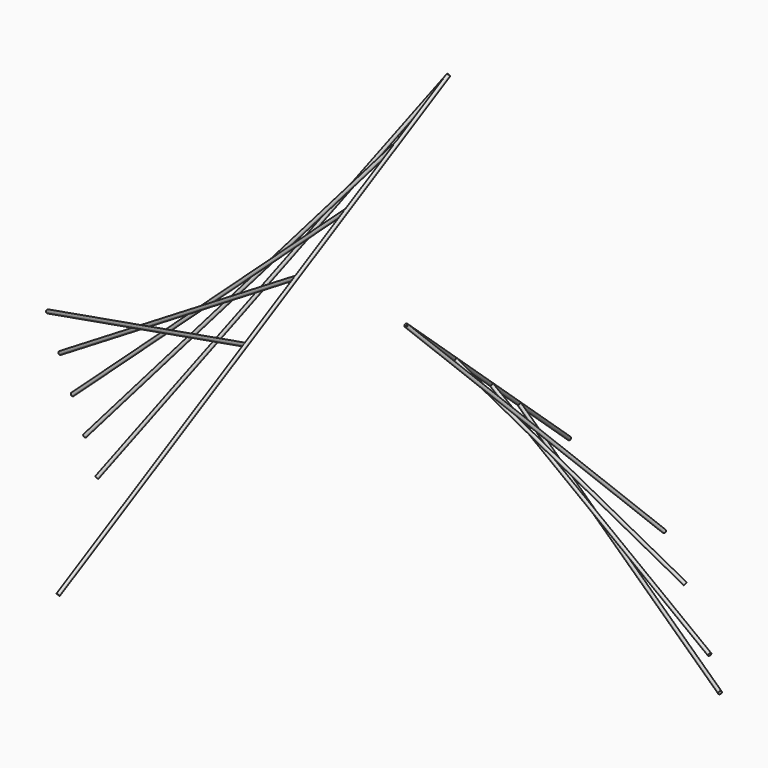
from build123d import *

# Parameters (mm, degrees)
F63_R = 12.7
F70_R = 12.7
F73_R = 12.7
F76_R = 12.7
F79_R = 12.7
F82_R = 12.7
F85_R = 12.7
F88_R = 12.7
F91_R = 12.7
F94_R = 12.7
F97_R = 12.7


with BuildPart() as f64:
    # F64: sweep along a path in F25
    with BuildLine(Plane(origin=(-389.3408093806, -284.2837312739, 424.8909350903), x_dir=(0.7955538849, -0.3369223213, 0.5035646589), z_dir=(0.6058828404, 0.4423955322, -0.6612050944))) as f64_path:
        Line((1378.450525737, -2734.5022761695), (501.7292301637, 1152.5681725711))
    # F63 (on line) → F64 (sweep)
    with BuildSketch(Plane(origin=(520.001502018, 2188.3635168782, 1940.6720255435), x_dir=(0.9845615706, -0.1309603061, -0.1161374701), z_dir=(-0.1750386065, -0.7366288346, -0.6532529726))):
        with Locations((190.2261524825, 963.7603534071)):
            Circle(F63_R)
    sweep(path=f64_path.line)


with BuildPart() as f71:
    # F71: sweep along a path in F13
    with BuildLine(Plane(origin=(-431.7393863669, 0, 925.8681019204), x_dir=(0.906307787, 0, 0.4226182617), z_dir=(0.4226182617, 0, -0.906307787))) as f71_path:
        Line((-2190.7905685546, -1524), (857.2094314454, 0))
    # F70 (on line) → F71 (sweep)
    with BuildSketch(Plane(origin=(621.5164662722, -342.8837725782, 289.8178878922), x_dir=(0.4053131641, 0.894427191, 0.1890006324), z_dir=(0.8106263281, -0.4472135955, 0.3780012647))):
        with Locations((383.3557119332, 1021.5824195307)):
            Circle(F70_R)
    sweep(path=f71_path.line)


with BuildPart() as f74:
    # F74: sweep along a path in F21
    with BuildLine(Plane(origin=(-615.8191529715, 0, 928.9531192667), x_dir=(0.8334897919, 0, 0.5525348557), z_dir=(0.5525348557, 0, -0.8334897919))) as f74_path:
        Line((-1681.2570460077, -1143), (1261.5739579109, -381))
    # F73 (on line) → F74 (sweep)
    with BuildSketch(Plane(origin=(908.3779208917, -282.1993005073, 602.1794967039), x_dir=(0.2089287283, 0.9680732664, 0.1385024818), z_dir=(0.8068791854, -0.2506674111, 0.5348942225))):
        with Locations((685.0713923805, 1114.5344889064)):
            Circle(F73_R)
    sweep(path=f74_path.line)


with BuildPart() as f77:
    # F77: sweep along a path in F15
    with BuildLine(Plane.XZ.offset(-762)) as f77_path:
        Line((-1616.9895384722, 0), (526.2235289716, 1963.8929462603))
    # F76 (on line) → F77 (sweep)
    with BuildSketch(Plane(origin=(1264.2533360874, 0, 1158.4747437124), x_dir=(0, 1, 0), z_dir=(0.7372773368, 0, 0.6755902076))):
        with Locations((762, 1092.4222980088)):
            Circle(F76_R)
    sweep(path=f77_path.line)


with BuildPart() as f80:
    # F80: sweep along a path in F23
    with BuildLine(Plane(origin=(-744.440015029, 0, 593.0264782161), x_dir=(0, -1, 0), z_dir=(-0.7821615259, 0, 0.6230757156))) as f80_path:
        Line((-381, -758.1892723911), (-1143, 2184.6417315276))
    # F79 (on line) → F80 (sweep)
    with BuildSketch(Plane(origin=(1448.487203882, 601.9542519396, 1818.3198818893), x_dir=(0.7976028692, -0.1895659013, -0.5726206703), z_dir=(0.6031829432, 0.2506674111, 0.7571896632))):
        with Locations((-1042.7871322125, 361.6953659558)):
            Circle(F79_R)
    sweep(path=f80_path.line)


with BuildPart() as f83:
    # F83: sweep along a path in F11
    with BuildLine(Plane(origin=(-612.5318538975, 0, 353.645430735), x_dir=(0, 1, 0), z_dir=(0.8660254038, 0, -0.5))) as f83_path:
        Line((0, -408.354569265), (1524, 2639.645430735))
    # F82 (on line) → F83 (sweep)
    with BuildSketch(Plane(origin=(1360.658172294, 1360.658172294, 2356.729086147), x_dir=(0.894427191, -0.2236067977, -0.3872983346), z_dir=(0.4472135955, 0.4472135955, 0.7745966692))):
        with Locations((-730.4868606394, 0)):
            Circle(F82_R)
    sweep(path=f83_path.line)


with BuildPart() as f86:
    # F86: sweep along a path in F66
    with BuildLine(Plane(origin=(1357.2791237126, 178.7256412325, -148.5163809982), x_dir=(-0.1290207409, 0.9915413951, 0.0141177251), z_dir=(0.9856582095, 0.1297908385, -0.1078528267))) as f86_path:
        Line((-180.2503073613, 1991.6784779044), (2039.3497725054, 120.4109458824))
    # F85 (on line) → F86 (sweep)
    with BuildSketch(Plane(origin=(239.8966595299, -1077.6722828153, 895.5177681397), x_dir=(-0.9856582095, -0.1297908385, 0.1078528267), z_dir=(-0.1687539451, 0.7580824578, -0.6299468971))):
        with Locations((-1377.0281732502, 1406.5536972315)):
            Circle(F85_R)
    sweep(path=f86_path.line)


with BuildPart() as f89:
    # F89: sweep along a path in F43
    with BuildLine(Plane(origin=(1322.085267977, -603.0697452142, 0), x_dir=(-0.4150127603, -0.9098155905, 0), z_dir=(-0.9098155905, 0.4150127603, 0))) as f89_path:
        Line((-2425.5424502575, 0), (-662.8483304511, 1828.8))
    # F88 (on line) → F89 (sweep)
    with BuildSketch(Plane(origin=(-246.7470301008, -540.9334757748, 616.8502447343), x_dir=(0.9576279754, -0.1898910422, 0.2165411111), z_dir=(-0.2880080914, -0.6313884219, 0.72))):
        with Locations((1925.5105956571, 1205.7742417561)):
            Circle(F88_R)
    sweep(path=f89_path.line)


with BuildPart() as f92:
    # F92: sweep along a path in F61
    with BuildLine(Plane(origin=(-43.9645667407, 125.4469535881, 0), x_dir=(-0.9437219156, -0.3307399977, 0), z_dir=(-0.3307399977, 0.9437219156, 0))) as f92_path:
        Line((-1585.7082149983, 1288.8739248976), (-3076.5950700847, 0))
    # F91 (on line) → F92 (sweep)
    with BuildSketch(Plane(origin=(254.635764715, 89.2405176226, -233.2604523847), x_dir=(-0.1844954764, 0.9681930038, 0.1690080667), z_dir=(0.7139248385, 0.2502045312, -0.6539946617))):
        with Locations((579.0824403399, 1931.5243215329)):
            Circle(F91_R)
    sweep(path=f92_path.line)


with BuildPart() as f95:
    # F95: sweep along a path in F68
    with BuildLine(Plane(origin=(407.35623983, 1414.9958187026, 0), x_dir=(0.960970966, -0.276649241, 0), z_dir=(-0.276649241, -0.960970966, 0))) as f95_path:
        Line((3278.5046341406, 0), (972.6985592843, 876.5871802043))
    # F94 (on line) → F95 (sweep)
    with BuildSketch(Plane(origin=(536.8980086444, -154.5649471771, -212.3996822224), x_dir=(-0.2404602271, -0.9659863713, 0.0951273333), z_dir=(-0.8982506037, 0.2585929821, 0.3553526735))):
        with Locations((-1346.2554817405, 1308.8287141944)):
            Circle(F94_R)
    sweep(path=f95_path.line)


with BuildPart() as f98:
    # F98: sweep along a path in F40
    with BuildLine(Plane(origin=(882.8350421028, 1716.8745773649, 0), x_dir=(0.8893149829, -0.4572951576, 0), z_dir=(-0.4572951576, -0.8893149829, 0))) as f98_path:
        Line((3417.4387166019, 0), (421.7726214012, 562.3954534531))
    # F97 (on line) → F98 (sweep)
    with BuildSketch(Plane(origin=(271.619766491, -139.669752903, -57.3395340169), x_dir=(-0.4397516593, -0.893308791, 0.0928325488), z_dir=(-0.8740455191, 0.449443438, 0.184512944))):
        with Locations((-1862.3680520254, 810.0921524147)):
            Circle(F97_R)
    sweep(path=f98_path.line)


solid = Compound([f64.part, f71.part, f74.part, f77.part, f80.part, f83.part, f86.part, f89.part, f92.part, f95.part, f98.part])
